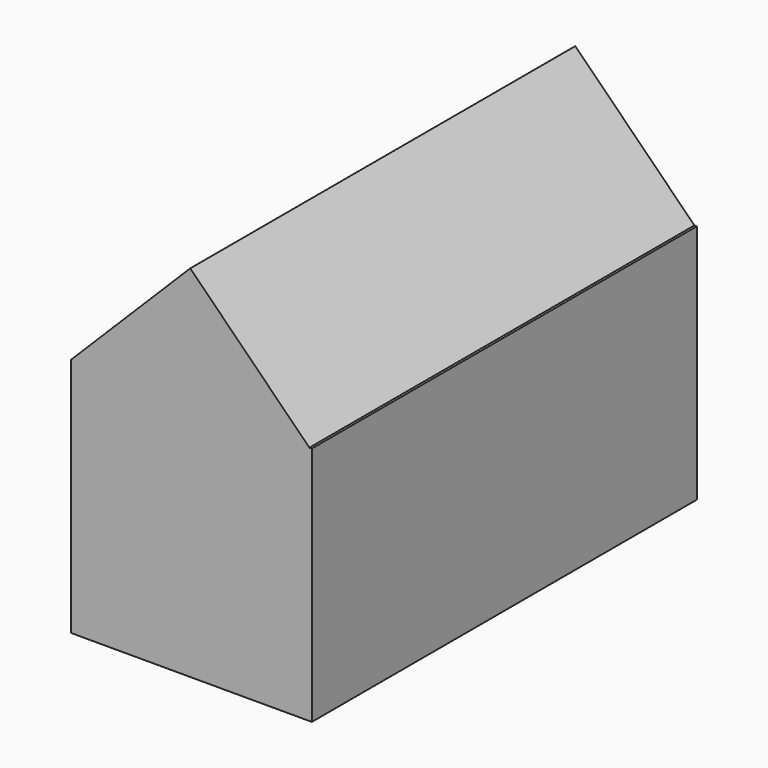
from build123d import *

# Parameters (mm, degrees)
BOX001_W               = 7
BOX001_H               = 20
BOX001_DEPTH           = 7
BOX001_PLACEMENT_ANGLE = 45
BOX_W                  = 10
BOX_H                  = 20
BOX_DEPTH              = 10


with BuildPart() as cube001:
    # Box001 → Box001 (new body)
    with BuildSketch(Plane.XY):
        with Locations((3.5, 10)):
            Rectangle(BOX001_W, BOX001_H)
    extrude(amount=BOX001_DEPTH)


with BuildPart() as cube001_1:
    # Box001 placement: moved
    add(cube001.part.moved(Location((-0.0011, 0, 10))).rotate(Axis((-0.0011, 0, 10), (0, 1, 0)), BOX001_PLACEMENT_ANGLE))


with BuildPart() as fusion:
    # Box → Box (new body)
    with BuildSketch(Plane.XY):
        with Locations((5, 10)):
            Rectangle(BOX_W, BOX_H)
    extrude(amount=BOX_DEPTH)

    # Fusion: union Cube001
    add(cube001_1.part)


with BuildPart() as fusion_1:
    # Fusion placement: moved
    add(fusion.part.moved(Location((-5, -10, 0))))


solid = fusion_1.part
